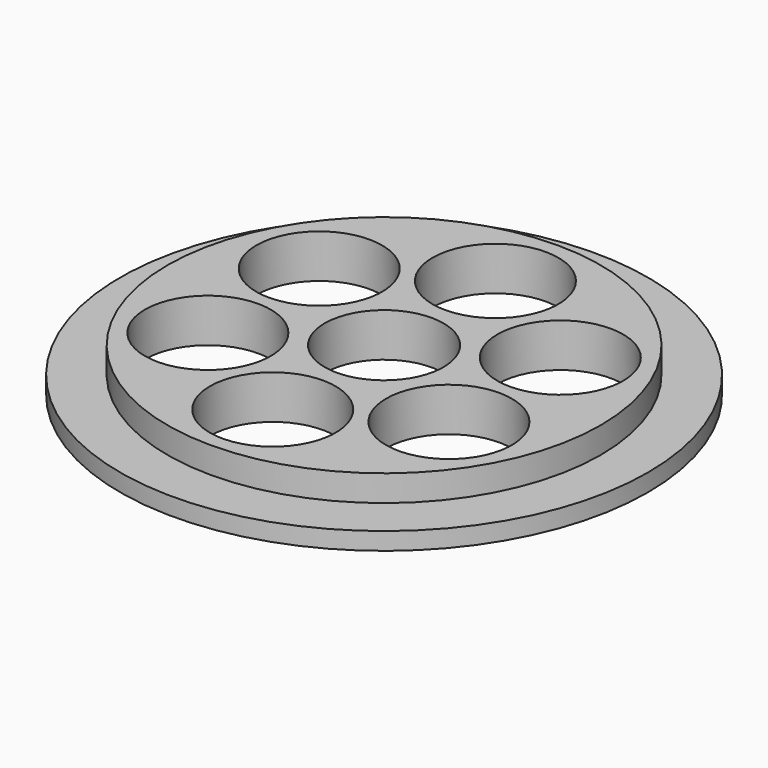
from build123d import *

# Parameters (mm, degrees)
F0_R     = 15.748
F1_DEPTH = 3.175
F0_R_2   = 19.186467
F2_DEPTH = 1.27
F3_D     = 8.636
F4_D     = 9.144


with BuildPart() as f1:
    # F0 (on Top) → F1 (new body)
    with BuildSketch(Plane.XY):
        Circle(F0_R)
    extrude(amount=F1_DEPTH)

    # F3 (through all)
    with Locations(Plane(origin=(0, 0, 0), x_dir=(1, 0, 0), z_dir=(0, 0, -1))):
        with Locations((0, 0)):
            Hole(F3_D / 2)

    # F4 (through all)
    with Locations(Plane(origin=(0, 0, 0), x_dir=(1, 0, 0), z_dir=(0, 0, -1))):
        with Locations((0, 10.117323), (8.761859, 5.058662), (8.761859, -5.058662), (0, -10.117323), (-8.761859, -5.058662), (-8.761859, 5.058662)):
            Hole(F4_D / 2)


with BuildPart() as f2:
    # F0 (on Top) → F2 (new body)
    with BuildSketch(Plane.XY):
        Circle(F0_R_2)
        Circle(F0_R, mode=Mode.SUBTRACT)
    extrude(amount=F2_DEPTH)


solid = Compound([f1.part, f2.part])
